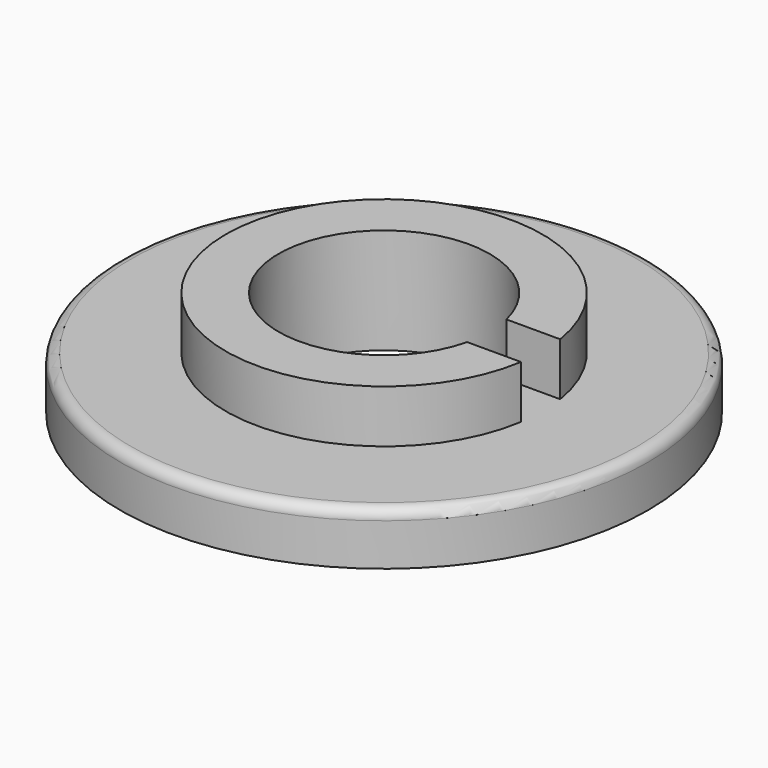
from build123d import *

# Parameters (mm, degrees)
F0_R     = 5
F0_R_2   = 2
F1_DEPTH = 1
F2_R     = 3
F2_R_2   = 2
F3_DEPTH = 1
F4_W     = 2.446195
F4_H     = 0.930616
F5_DEPTH = 1
F6_R     = 0.2


with BuildPart() as f1:
    # F0 (on Top) → F1 (new body)
    with BuildSketch(Plane.XY):
        Circle(F0_R)
        Circle(F0_R_2, mode=Mode.SUBTRACT)
    extrude(amount=F1_DEPTH)

    # F2 (on face) → F3 (join)
    with BuildSketch(Plane.XY.offset(1)):
        Circle(F2_R)
        Circle(F2_R_2, mode=Mode.SUBTRACT)
    extrude(amount=F3_DEPTH)

    # F4 (on face) → F5 (cut)
    with BuildSketch(Plane.XY.offset(2)):
        with Locations((2.446193, 0)):
            Rectangle(F4_W, F4_H)
    extrude(amount=-F5_DEPTH, mode=Mode.SUBTRACT)

    # F6
    f6_edges = [f1.edges().sort_by_distance(p)[0] for p in [
        (-5, 0, 1),
    ]]
    fillet(f6_edges, radius=F6_R)


solid = f1.part
